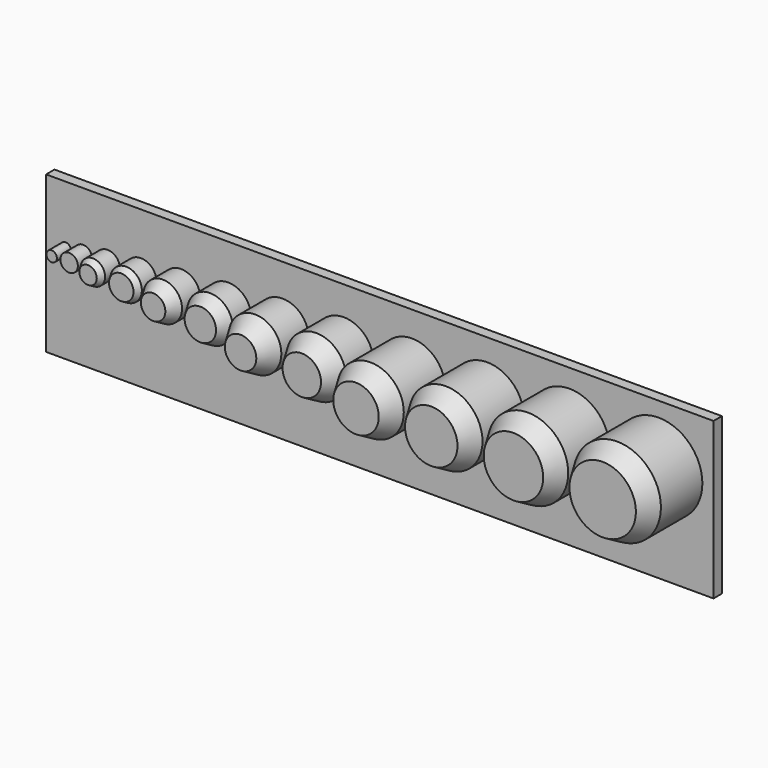
from build123d import *

# Parameters (mm, degrees)
F0_R        = 1.5
F1_DEPTH    = 5
F0_R_2      = 2.5
F0_R_3      = 3.5
F2_DEPTH    = 7
F0_R_4      = 4.5
F0_R_5      = 5.5
F3_DEPTH    = 10
F0_R_6      = 6.5
F0_R_7      = 7.5
F4_DEPTH    = 15
F0_R_8      = 8.5
F0_R_9      = 9.5
F5_DEPTH    = 20
F0_R_10     = 10.5
F0_R_11     = 11.5
F6_DEPTH    = 20
F0_R_12     = 12.5
F7_W        = 190.7746661454
F7_H        = 44.6706470102
F8_DEPTH    = 3
F9_SIZE2    = 5.1961524227
F9_SIZE     = 3
F9_2_SIZE2  = 5.1961524227
F9_2_SIZE   = 3
F9_3_SIZE2  = 5.1961524227
F9_3_SIZE   = 3
F9_4_SIZE2  = 5.1961524227
F9_4_SIZE   = 3
F9_5_SIZE2  = 5.1961524227
F9_5_SIZE   = 3
F9_6_SIZE2  = 5.1961524227
F9_6_SIZE   = 3
F10_SIZE2   = 3.4641016151
F10_SIZE    = 2
F10_2_SIZE2 = 3.4641016151
F10_2_SIZE  = 2
F11_SIZE2   = 1.7320508076
F11_SIZE    = 1
F11_2_SIZE2 = 1.7320508076
F11_2_SIZE  = 1


with BuildPart() as f1:
    # F0 (on Front) → F1 (new body)
    with BuildSketch(Plane.XZ):
        with Locations((-19.6082217147, 0)):
            Circle(F0_R)
    extrude(amount=F1_DEPTH)


with BuildPart() as f1b:
    # F0 (on Front) → F1, piece 2 (new body)
    with BuildSketch(Plane.XZ):
        with Locations((-14.6082217147, 0)):
            Circle(F0_R_2)
    extrude(amount=F1_DEPTH)


with BuildPart() as f2:
    # F0 (on Front) → F2 (new body)
    with BuildSketch(Plane.XZ):
        with Locations((-7.6082217147, 0)):
            Circle(F0_R_3)
    extrude(amount=F2_DEPTH)

    # F11#2
    f11_2_edges = [f2.edges().sort_by_distance(p)[0] for p in [
        (-11.108222, -7, 0),
    ]]
    f11_2_side = f2.faces().sort_by_distance((-7.608222, -7, 0))[0]
    chamfer(f11_2_edges, length=F11_2_SIZE, length2=F11_2_SIZE2, reference=f11_2_side)


with BuildPart() as f2b:
    # F0 (on Front) → F2, piece 2 (new body)
    with BuildSketch(Plane.XZ):
        with Locations((1.8917782853, 0)):
            Circle(F0_R_4)
    extrude(amount=F2_DEPTH)

    # F11
    f11_edges = [f2b.edges().sort_by_distance(p)[0] for p in [
        (-2.608222, -7, 0),
    ]]
    f11_side = f2b.faces().sort_by_distance((1.891778, -7, 0))[0]
    chamfer(f11_edges, length=F11_SIZE, length2=F11_SIZE2, reference=f11_side)


with BuildPart() as f3:
    # F0 (on Front) → F3 (new body)
    with BuildSketch(Plane.XZ):
        with Locations((13.3917782853, 0)):
            Circle(F0_R_5)
    extrude(amount=F3_DEPTH)

    # F10#2
    f10_2_edges = [f3.edges().sort_by_distance(p)[0] for p in [
        (7.891778, -10, 0),
    ]]
    f10_2_side = f3.faces().sort_by_distance((13.391778, -10, 0))[0]
    chamfer(f10_2_edges, length=F10_2_SIZE, length2=F10_2_SIZE2, reference=f10_2_side)


with BuildPart() as f3b:
    # F0 (on Front) → F3, piece 2 (new body)
    with BuildSketch(Plane.XZ):
        with Locations((26.8917782853, 0)):
            Circle(F0_R_6)
    extrude(amount=F3_DEPTH)

    # F10
    f10_edges = [f3b.edges().sort_by_distance(p)[0] for p in [
        (20.391778, -10, 0),
    ]]
    f10_side = f3b.faces().sort_by_distance((26.891778, -10, 0))[0]
    chamfer(f10_edges, length=F10_SIZE, length2=F10_SIZE2, reference=f10_side)


with BuildPart() as f4:
    # F0 (on Front) → F4 (new body)
    with BuildSketch(Plane.XZ):
        with Locations((42.3917782853, 0)):
            Circle(F0_R_7)
    extrude(amount=F4_DEPTH)

    # F9#6
    f9_6_edges = [f4.edges().sort_by_distance(p)[0] for p in [
        (34.891778, -15, 0),
    ]]
    f9_6_side = f4.faces().sort_by_distance((42.391778, -15, 0))[0]
    chamfer(f9_6_edges, length=F9_6_SIZE, length2=F9_6_SIZE2, reference=f9_6_side)


with BuildPart() as f4b:
    # F0 (on Front) → F4, piece 2 (new body)
    with BuildSketch(Plane.XZ):
        with Locations((59.8917782853, 0)):
            Circle(F0_R_8)
    extrude(amount=F4_DEPTH)

    # F9#5
    f9_5_edges = [f4b.edges().sort_by_distance(p)[0] for p in [
        (51.391778, -15, 0),
    ]]
    f9_5_side = f4b.faces().sort_by_distance((59.891778, -15, 0))[0]
    chamfer(f9_5_edges, length=F9_5_SIZE, length2=F9_5_SIZE2, reference=f9_5_side)


with BuildPart() as f5:
    # F0 (on Front) → F5 (new body)
    with BuildSketch(Plane.XZ):
        with Locations((79.3917782853, 0)):
            Circle(F0_R_9)
    extrude(amount=F5_DEPTH)

    # F9#4
    f9_4_edges = [f5.edges().sort_by_distance(p)[0] for p in [
        (69.891778, -20, 0),
    ]]
    f9_4_side = f5.faces().sort_by_distance((79.391778, -20, 0))[0]
    chamfer(f9_4_edges, length=F9_4_SIZE, length2=F9_4_SIZE2, reference=f9_4_side)


with BuildPart() as f5b:
    # F0 (on Front) → F5, piece 2 (new body)
    with BuildSketch(Plane.XZ):
        with Locations((100.8917782853, 0)):
            Circle(F0_R_10)
    extrude(amount=F5_DEPTH)

    # F9#3
    f9_3_edges = [f5b.edges().sort_by_distance(p)[0] for p in [
        (90.391778, -20, 0),
    ]]
    f9_3_side = f5b.faces().sort_by_distance((100.891778, -20, 0))[0]
    chamfer(f9_3_edges, length=F9_3_SIZE, length2=F9_3_SIZE2, reference=f9_3_side)


with BuildPart() as f6:
    # F0 (on Front) → F6 (new body)
    with BuildSketch(Plane.XZ):
        with Locations((124.3917782853, 0)):
            Circle(F0_R_11)
    extrude(amount=F6_DEPTH)

    # F9#2
    f9_2_edges = [f6.edges().sort_by_distance(p)[0] for p in [
        (112.891778, -20, 0),
    ]]
    f9_2_side = f6.faces().sort_by_distance((124.391778, -20, 0))[0]
    chamfer(f9_2_edges, length=F9_2_SIZE, length2=F9_2_SIZE2, reference=f9_2_side)


with BuildPart() as f6b:
    # F0 (on Front) → F6, piece 2 (new body)
    with BuildSketch(Plane.XZ):
        with Locations((149.8917782853, 0)):
            Circle(F0_R_12)
    extrude(amount=F6_DEPTH)

    # F9
    f9_edges = [f6b.edges().sort_by_distance(p)[0] for p in [
        (137.391778, -20, 0),
    ]]
    f9_side = f6b.faces().sort_by_distance((149.891778, -20, 0))[0]
    chamfer(f9_edges, length=F9_SIZE, length2=F9_SIZE2, reference=f9_side)


with BuildPart() as f8:
    # F7 (on Front) → F8 (new body)
    with BuildSketch(Plane.XZ):
        with Locations((70.1923733577, -5.5747600272)):
            Rectangle(F7_W, F7_H)
    extrude(amount=-F8_DEPTH)


solid = Compound([f1.part, f1b.part, f2.part, f2b.part, f3.part, f3b.part, f4.part, f4b.part, f5.part, f5b.part, f6.part, f6b.part, f8.part])
